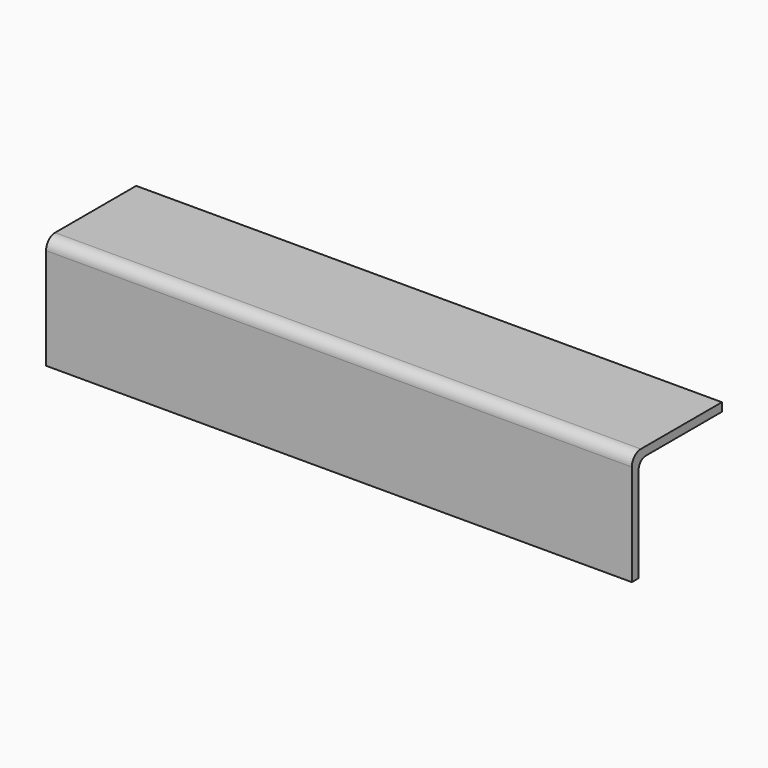
from build123d import *

# Parameters (mm, degrees)
F1_DEPTH = 330.2


with BuildPart() as f1:
    # F0 (on Right) → F1 (new body)
    with BuildSketch(Plane.YZ):
        with BuildLine():
            Line((-28.115756, 44.895094), (-28.115756, -12.254906))
            Line((-28.115756, -12.254906), (-23.353256, -12.254906))
            Line((-23.353256, -12.254906), (-23.353256, 41.402594))
            ThreePointArc((-23.353256, 41.402594), (-21.865359, 44.994697), (-18.273256, 46.482594))
            Line((-18.273256, 46.482594), (35.384244, 46.482594))
            Line((35.384244, 46.482594), (35.384244, 51.245094))
            Line((35.384244, 51.245094), (-21.765756, 51.245094))
            ThreePointArc((-21.765756, 51.245094), (-26.255884, 49.385222), (-28.115756, 44.895094))
        make_face()
    extrude(amount=F1_DEPTH)


solid = f1.part
